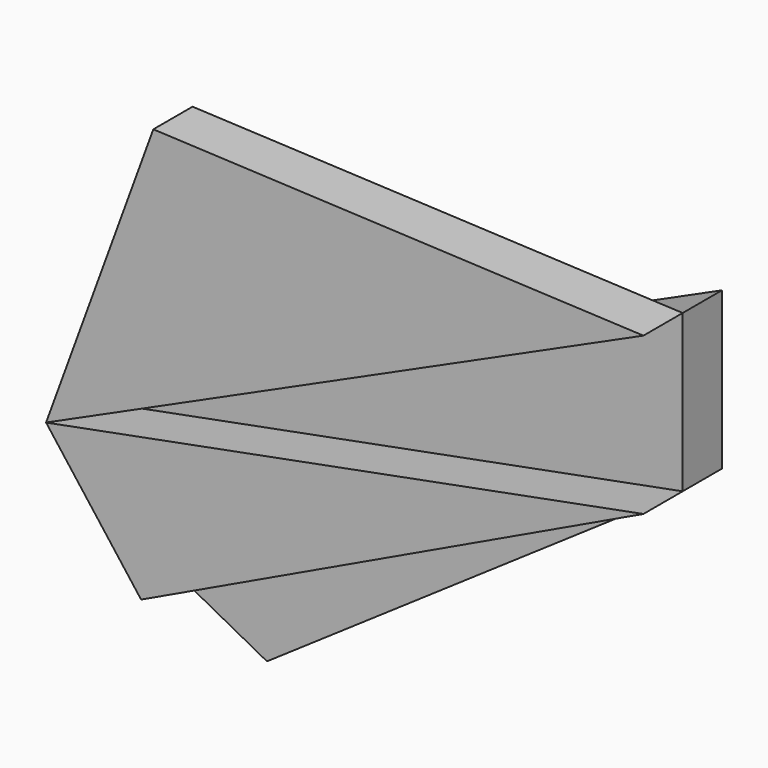
from build123d import *

# Parameters (mm, degrees)
F1_DEPTH = 25
F2_DEPTH = 25
F3_DEPTH = 25
F4_DEPTH = 25


with BuildPart() as f1:
    # F0 (on Front) → F1 (new body)
    with BuildSketch(Plane.XZ):
        Polygon((-304.384534, -57.975239), (0, 80), (-249.742642, 91.340747), align=None)
    extrude(amount=F1_DEPTH)

    # F0 (on Front) → F2 (join)
    with BuildSketch(Plane.XZ):
        Polygon((-304.384534, -57.975239), (0, 0), (0, 80), align=None)
    extrude(amount=-F2_DEPTH)



with BuildPart() as f3:
    # F0 (on Front) → F3 (new body)
    with BuildSketch(Plane.XZ):
        Polygon((-255.960273, -121.654835), (0, 0), (-304.384534, -57.975239), align=None)
    extrude(amount=F3_DEPTH)


with BuildPart() as f1_1:
    add(f1.part)

    add(f3.part)  # F4 merges F3
    # F0 (on Front) → F4 (join)
    with BuildSketch(Plane.XZ):
        Polygon((-211.832791, -145.165797), (0, 0), (-255.960273, -121.654835), align=None)
    extrude(amount=-F4_DEPTH)


solid = f1_1.part
